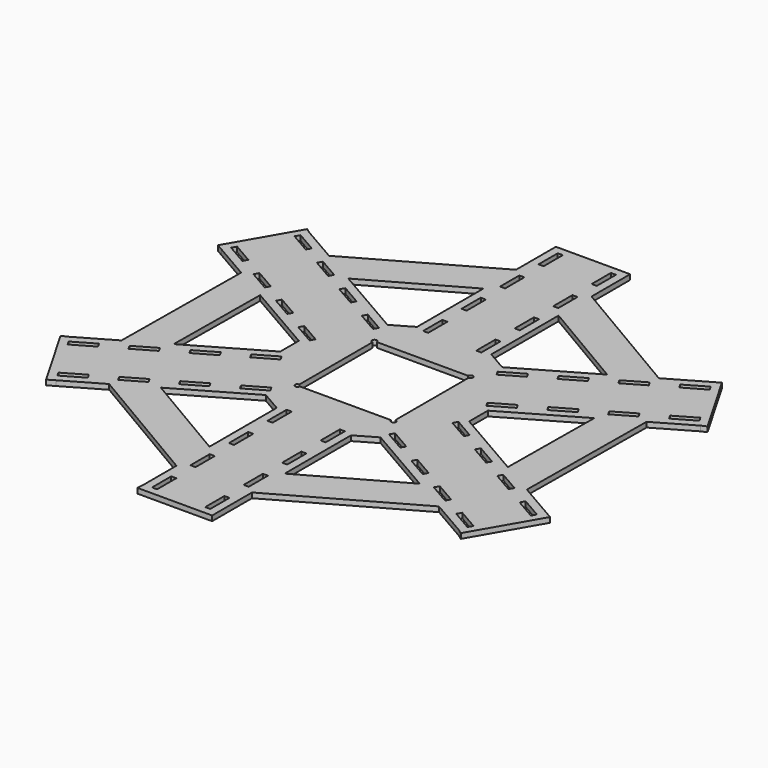
from build123d import *

# Parameters (mm, degrees)
F0_W     = 3.175
F0_H     = 15
F1_DEPTH = 3.175


with BuildPart() as f1:
    # F0 (on Top) → F1 (new body)
    with BuildSketch(Plane.XY):
        Polygon((-23.175, 131.912197), (-103.497044, 86.514231), (-81.210484, 73.64708), (-23.175, 106.448697), align=None)
        Polygon((-103.774776, 33.15421), (-125.826813, 45.88596), (-126.672044, -46.373954), (-104.385484, -33.506803), align=None)
        Polygon((-80.599776, -73.294487), (-102.651813, -86.026237), (-23.175, -132.888185), (-23.175, -107.153883), align=None)
        Polygon((23.175, -106.448697), (23.175, -131.912197), (103.497044, -86.514231), (81.210484, -73.64708), align=None)
        Polygon((125.826813, -45.88596), (126.672044, 46.373954), (104.385484, 33.506803), (103.774776, -33.15421), align=None)
        Polygon((102.651813, 86.026237), (23.175, 132.888185), (23.175, 107.153883), (80.599776, 73.294487), align=None)
        Polygon((-103.497044, 86.514231), (-126.50951, 99.800485), (-129.388833, 101.870507), (-152.740348, 61.424496), (-148.597119, 59.032402), (-125.826813, 45.88596), (-103.774776, 33.15421), (-58.952432, 7.276018), (-58.952432, -7.276018), (-104.385484, -33.506803), (-126.672044, -46.373954), (-149.68451, -59.660207), (-152.916863, -61.118763), (-129.565348, -101.564774), (-125.422119, -99.172679), (-102.651813, -86.026237), (-80.599776, -73.294487), (-35.777432, -47.416295), (-23.175, -54.692313), (-23.175, -107.153883), (-23.175, -132.888185), (-23.175, -159.460692), (-23.528031, -162.98927), (23.175, -162.98927), (23.175, -158.205081), (23.175, -131.912197), (23.175, -106.448697), (23.175, -54.692313), (35.777432, -47.416295), (81.210484, -73.64708), (103.497044, -86.514231), (126.50951, -99.800485), (129.388833, -101.870507), (152.740348, -61.424496), (148.597119, -59.032402), (125.826813, -45.88596), (103.774776, -33.15421), (58.952432, -7.276018), (58.952432, 7.276018), (104.385484, 33.506803), (126.672044, 46.373954), (149.68451, 59.660207), (152.916863, 61.118763), (129.565348, 101.564774), (125.422119, 99.172679), (102.651813, 86.026237), (80.599776, 73.294487), (35.777432, 47.416295), (23.175, 54.692313), (23.175, 107.153883), (23.175, 132.888185), (23.175, 159.460692), (23.175, 162.98927), (-23.175, 162.98927), (-23.175, 158.205081), (-23.175, 131.912197), (-23.175, 106.448697), (-23.175, 54.692313), (-35.777432, 47.416295), (-81.210484, 73.64708), align=None)
        Polygon((-116.519238, -84.592921), (-114.931738, -87.342552), (-127.922119, -94.842552), (-129.509619, -92.092921), align=None, mode=Mode.SUBTRACT)
        with Locations((-16.5875, -150.705081)):
            Rectangle(F0_W, F0_H, mode=Mode.SUBTRACT)
        with Locations((-16.5875, -120.705081)):
            Rectangle(F0_W, F0_H, mode=Mode.SUBTRACT)
        with Locations((-16.5875, -90.705081)):
            Rectangle(F0_W, F0_H, mode=Mode.SUBTRACT)
        Polygon((-133.106738, -55.862529), (-131.519238, -58.612159), (-144.509619, -66.112159), (-146.097119, -63.362529), align=None, mode=Mode.SUBTRACT)
        Polygon((-120.116357, -48.362529), (-107.125976, -40.862529), (-105.538476, -43.612159), (-118.528857, -51.112159), align=None, mode=Mode.SUBTRACT)
        Polygon((-90.538476, -69.592921), (-88.950976, -72.342552), (-101.941357, -79.842552), (-103.528857, -77.092921), align=None, mode=Mode.SUBTRACT)
        Polygon((-77.548095, -62.092921), (-64.557714, -54.592921), (-62.970214, -57.342552), (-75.960595, -64.842552), align=None, mode=Mode.SUBTRACT)
        Polygon((-38.576952, -39.592921), (-36.989452, -42.342552), (-49.979833, -49.842552), (-51.567333, -47.092921), align=None, mode=Mode.SUBTRACT)
        with Locations((-16.5875, -60.705081)):
            Rectangle(F0_W, F0_H, mode=Mode.SUBTRACT)
        Polygon((-81.145214, -25.862529), (-79.557714, -28.612159), (-92.548095, -36.112159), (-94.135595, -33.362529), align=None, mode=Mode.SUBTRACT)
        Polygon((-68.154833, -18.362529), (-55.164452, -10.862529), (-53.576952, -13.612159), (-66.567333, -21.112159), align=None, mode=Mode.SUBTRACT)
        with Locations((16.5875, -150.705081)):
            Rectangle(F0_W, F0_H, mode=Mode.SUBTRACT)
        with Locations((16.5875, -120.705081)):
            Rectangle(F0_W, F0_H, mode=Mode.SUBTRACT)
        with Locations((16.5875, -90.705081)):
            Rectangle(F0_W, F0_H, mode=Mode.SUBTRACT)
        Polygon((114.931738, -87.342552), (116.519238, -84.592921), (129.509619, -92.092921), (127.922119, -94.842552), align=None, mode=Mode.SUBTRACT)
        with Locations((16.5875, -60.705081)):
            Rectangle(F0_W, F0_H, mode=Mode.SUBTRACT)
        Polygon((49.979833, -49.842552), (36.989452, -42.342552), (38.576952, -39.592921), (51.567333, -47.092921), align=None, mode=Mode.SUBTRACT)
        Polygon((101.941357, -79.842552), (88.950976, -72.342552), (90.538476, -69.592921), (103.528857, -77.092921), align=None, mode=Mode.SUBTRACT)
        Polygon((62.970214, -57.342552), (64.557714, -54.592921), (77.548095, -62.092921), (75.960595, -64.842552), align=None, mode=Mode.SUBTRACT)
        with BuildLine():
            Line((28.5, -30), (-28.5, -30))
            ThreePointArc((-28.5, -30), (-31.06066, -31.06066), (-30, -28.5))
            Line((-30, -28.5), (-30, 28.5))
            ThreePointArc((-30, 28.5), (-31.06066, 31.06066), (-28.5, 30))
            Line((-28.5, 30), (28.5, 30))
            ThreePointArc((28.5, 30), (30, 31.5), (31.5, 30))
            ThreePointArc((31.5, 30), (31.06066, 28.93934), (30, 28.5))
            Line((30, 28.5), (30, -28.5))
            ThreePointArc((30, -28.5), (31.06066, -28.93934), (31.5, -30))
            ThreePointArc((31.5, -30), (30, -31.5), (28.5, -30))
        make_face(mode=Mode.SUBTRACT)
        Polygon((92.548095, -36.112159), (79.557714, -28.612159), (81.145214, -25.862529), (94.135595, -33.362529), align=None, mode=Mode.SUBTRACT)
        Polygon((53.576952, -13.612159), (55.164452, -10.862529), (68.154833, -18.362529), (66.567333, -21.112159), align=None, mode=Mode.SUBTRACT)
        Polygon((105.538476, -43.612159), (107.125976, -40.862529), (120.116357, -48.362529), (118.528857, -51.112159), align=None, mode=Mode.SUBTRACT)
        Polygon((131.519238, -58.612159), (133.106738, -55.862529), (146.097119, -63.362529), (144.509619, -66.112159), align=None, mode=Mode.SUBTRACT)
        Polygon((-131.519238, 58.612159), (-133.106738, 55.862529), (-146.097119, 63.362529), (-144.509619, 66.112159), align=None, mode=Mode.SUBTRACT)
        Polygon((-105.538476, 43.612159), (-107.125976, 40.862529), (-120.116357, 48.362529), (-118.528857, 51.112159), align=None, mode=Mode.SUBTRACT)
        Polygon((-53.576952, 13.612159), (-55.164452, 10.862529), (-68.154833, 18.362529), (-66.567333, 21.112159), align=None, mode=Mode.SUBTRACT)
        Polygon((-92.548095, 36.112159), (-79.557714, 28.612159), (-81.145214, 25.862529), (-94.135595, 33.362529), align=None, mode=Mode.SUBTRACT)
        Polygon((-62.970214, 57.342552), (-64.557714, 54.592921), (-77.548095, 62.092921), (-75.960595, 64.842552), align=None, mode=Mode.SUBTRACT)
        Polygon((-101.941357, 79.842552), (-88.950976, 72.342552), (-90.538476, 69.592921), (-103.528857, 77.092921), align=None, mode=Mode.SUBTRACT)
        Polygon((-49.979833, 49.842552), (-36.989452, 42.342552), (-38.576952, 39.592921), (-51.567333, 47.092921), align=None, mode=Mode.SUBTRACT)
        with Locations((-16.5875, 60.705081)):
            Rectangle(F0_W, F0_H, mode=Mode.SUBTRACT)
        Polygon((-114.931738, 87.342552), (-116.519238, 84.592921), (-129.509619, 92.092921), (-127.922119, 94.842552), align=None, mode=Mode.SUBTRACT)
        with Locations((-16.5875, 90.705081)):
            Rectangle(F0_W, F0_H, mode=Mode.SUBTRACT)
        with Locations((-16.5875, 120.705081)):
            Rectangle(F0_W, F0_H, mode=Mode.SUBTRACT)
        with Locations((-16.5875, 150.705081)):
            Rectangle(F0_W, F0_H, mode=Mode.SUBTRACT)
        Polygon((68.154833, 18.362529), (55.164452, 10.862529), (53.576952, 13.612159), (66.567333, 21.112159), align=None, mode=Mode.SUBTRACT)
        Polygon((81.145214, 25.862529), (79.557714, 28.612159), (92.548095, 36.112159), (94.135595, 33.362529), align=None, mode=Mode.SUBTRACT)
        with Locations((16.5875, 60.705081)):
            Rectangle(F0_W, F0_H, mode=Mode.SUBTRACT)
        Polygon((38.576952, 39.592921), (36.989452, 42.342552), (49.979833, 49.842552), (51.567333, 47.092921), align=None, mode=Mode.SUBTRACT)
        Polygon((77.548095, 62.092921), (64.557714, 54.592921), (62.970214, 57.342552), (75.960595, 64.842552), align=None, mode=Mode.SUBTRACT)
        Polygon((90.538476, 69.592921), (88.950976, 72.342552), (101.941357, 79.842552), (103.528857, 77.092921), align=None, mode=Mode.SUBTRACT)
        Polygon((120.116357, 48.362529), (107.125976, 40.862529), (105.538476, 43.612159), (118.528857, 51.112159), align=None, mode=Mode.SUBTRACT)
        Polygon((133.106738, 55.862529), (131.519238, 58.612159), (144.509619, 66.112159), (146.097119, 63.362529), align=None, mode=Mode.SUBTRACT)
        with Locations((16.5875, 90.705081)):
            Rectangle(F0_W, F0_H, mode=Mode.SUBTRACT)
        with Locations((16.5875, 120.705081)):
            Rectangle(F0_W, F0_H, mode=Mode.SUBTRACT)
        with Locations((16.5875, 150.705081)):
            Rectangle(F0_W, F0_H, mode=Mode.SUBTRACT)
        Polygon((116.519238, 84.592921), (114.931738, 87.342552), (127.922119, 94.842552), (129.509619, 92.092921), align=None, mode=Mode.SUBTRACT)
    extrude(amount=F1_DEPTH)


solid = f1.part
